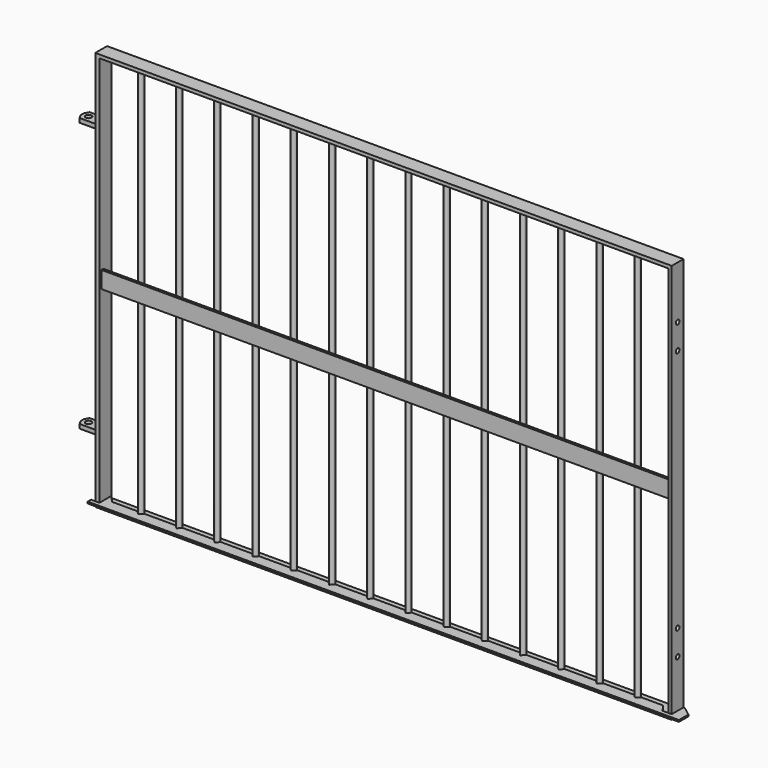
from build123d import *

# Parameters (mm, degrees)
F0_W      = 8
F0_H      = 934
F1_DEPTH  = 17.5
F2_R      = 6
F3_DEPTH  = 934
F4_W      = 6
F4_H      = 40
F5_DEPTH  = 1350
F0_W_2    = 45
F0_H_2    = 10
F6_DEPTH  = 15
F7_R      = 7
F8_DEPTH  = 800.001
F9_R      = 5.5
F10_DEPTH = 10
F12_DEPTH = 4


with BuildPart() as f1:
    # F0 (on Front) → F1 (new body, symmetric)
    with BuildSketch(Plane.XZ):
        Polygon((669.655957, 531.295407), (-700.344043, 531.295407), (-700.344043, 523.295407), (-690.344043, 523.295407), (-609.544043, 523.295407), (-597.544043, 523.295407), (661.655957, 523.295407), (669.655957, 523.295407), align=None)
        Polygon((669.655957, -418.704593), (669.655957, -410.704593), (661.655957, -410.704593), (-597.544043, -410.704593), (-609.544043, -410.704593), (-690.344043, -410.704593), (-700.344043, -410.704593), (-700.344043, -418.704593), align=None)
        with Locations((665.655957, 56.295407)):
            Rectangle(F0_W, F0_H)
        Polygon((-690.344043, 523.295407), (-700.344043, 523.295407), (-700.344043, 381.295407), (-700.344043, 371.295407), (-700.344043, -258.704593), (-700.344043, -268.704593), (-700.344043, -410.704593), (-690.344043, -410.704593), align=None)
    extrude(amount=F1_DEPTH, both=True)

    # F2 (on face) → F3 (join)
    with BuildSketch(Plane.XY.offset(-410.704593)):
        with Locations((-605.544043, 0)):
            Circle(F2_R)
        with Locations((-514.744043, 0)):
            Circle(F2_R)
        with Locations((-423.944043, 0)):
            Circle(F2_R)
        with Locations((-333.144043, 0)):
            Circle(F2_R)
        with Locations((-242.344043, 0)):
            Circle(F2_R)
        with Locations((-151.544043, 0)):
            Circle(F2_R)
        with Locations((-60.744043, 0)):
            Circle(F2_R)
        with Locations((30.055957, 0)):
            Circle(F2_R)
        with Locations((120.855957, 0)):
            Circle(F2_R)
        with Locations((211.655957, 0)):
            Circle(F2_R)
        with Locations((302.455957, 0)):
            Circle(F2_R)
        with Locations((393.255957, 0)):
            Circle(F2_R)
        with Locations((484.055957, 0)):
            Circle(F2_R)
        with Locations((574.855957, 0)):
            Circle(F2_R)
    extrude(amount=F3_DEPTH)

    # F0 (on Front) → F6 (join, symmetric)
    with BuildSketch(Plane.XZ):
        with Locations((-722.844043, -263.704593)):
            Rectangle(F0_W_2, F0_H_2)
        with Locations((-722.844043, 376.295407)):
            Rectangle(F0_W_2, F0_H_2)
    extrude(amount=F6_DEPTH, both=True)

    # F7 (on face) → F8 (cut, through all)
    with BuildSketch(Plane.XY.offset(381.295407)):
        with Locations((-730.344043, 0)):
            Circle(F7_R)
        Polygon((-745.344043, 15), (-745.344043, 5), (-739.57054, 15), align=None)
        Polygon((-739.57054, -15), (-745.344043, -5), (-745.344043, -15), align=None)
    extrude(amount=-F8_DEPTH, mode=Mode.SUBTRACT)

    # F9 (on face) → F10 (cut)
    with BuildSketch(Plane.YZ.offset(669.655957)):
        with Locations((0, 406.295407)):
            Circle(F9_R)
        with Locations((0, 346.295407)):
            Circle(F9_R)
        with Locations((0, -293.704593)):
            Circle(F9_R)
        with Locations((0, -233.704593)):
            Circle(F9_R)
    extrude(amount=-F10_DEPTH, mode=Mode.SUBTRACT)


with BuildPart() as f5:
    # F4 (on face) → F5 (new body)
    with BuildSketch(Plane.YZ.offset(-690.344043)):
        with Locations((-9, 58.295407)):
            Rectangle(F4_W, F4_H)
    extrude(amount=F5_DEPTH)


with BuildPart() as f12:
    # F11 (on face) → F12 (new body)
    with BuildSketch(Plane.XY.offset(-410.704593)):
        Polygon((-605.544043, -8.485281), (-614.029324, 0), (-674.42286, 0), (-690.344043, 17.5), (-690.344043, 0), (-690.344043, -17.5), (-710.344043, -17.5), (-710.344043, -27.5), (694.655957, -27.5), (694.655957, -17.5), (694.655957, 0.749396), (672.430694, 17.5), (669.655957, 17.5), (669.655957, -17.5), (661.655957, -17.5), (647.786915, -17.5), (635.252535, 0), (583.341239, 0), (574.855957, -8.485281), (566.370676, 0), (492.541239, 0), (484.055957, -8.485281), (475.570676, 0), (401.741239, 0), (393.255957, -8.485281), (384.770676, 0), (310.941239, 0), (302.455957, -8.485281), (293.970676, 0), (220.141239, 0), (211.655957, -8.485281), (203.170676, 0), (129.341239, 0), (120.855957, -8.485281), (112.370676, 0), (38.541239, 0), (30.055957, -8.485281), (21.570676, 0), (-52.258761, 0), (-60.744043, -8.485281), (-69.229324, 0), (-143.058761, 0), (-151.544043, -8.485281), (-160.029324, 0), (-233.858761, 0), (-242.344043, -8.485281), (-250.829324, 0), (-324.658761, 0), (-333.144043, -8.485281), (-341.629324, 0), (-415.458761, 0), (-423.944043, -8.485281), (-432.429324, 0), (-506.258761, 0), (-514.744043, -8.485281), (-523.229324, 0), (-597.058761, 0), align=None)
    extrude(amount=F12_DEPTH)


with BuildPart() as f13_1:
    # F13: copy of F12
    add(f12.part)


solid = Compound([f1.part, f5.part, f12.part])
